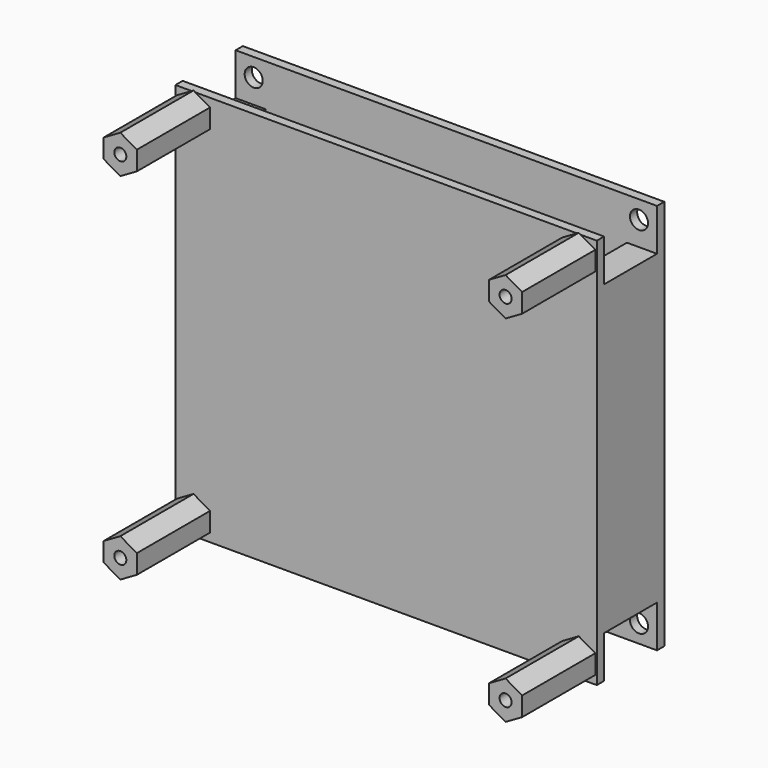
from build123d import *

# Parameters (mm, degrees)
F0_W     = 70
F0_H     = 65
F1_DEPTH = 1.5
F2_W     = 5
F2_H     = 51
F3_DEPTH = 11
F4_W     = 70
F4_H     = 65
F5_DEPTH = 1.5
F6_R     = 1.5
F7_DEPTH = 25
F8_R     = 1
F9_DEPTH = 15.2


with BuildPart() as f1:
    # F0 (on Front) → F1 (new body)
    with BuildSketch(Plane.XZ):
        with Locations((35, 32.5)):
            Rectangle(F0_W, F0_H)
    extrude(amount=-F1_DEPTH)

    # F2 (on face) → F3 (join)
    with BuildSketch(Plane(origin=(0, 1.5, 0), x_dir=(-1, 0, 0), z_dir=(0, 1, 0))):
        with Locations((-67.5, 32.5)):
            Rectangle(F2_W, F2_H)
        with Locations((-2.5, 32.5)):
            Rectangle(F2_W, F2_H)
    extrude(amount=F3_DEPTH)

    # F4 (on face) → F5 (join)
    with BuildSketch(Plane(origin=(0, 12.5, 0), x_dir=(-1, 0, 0), z_dir=(0, 1, 0))):
        with Locations((-35, 32.5)):
            Rectangle(F4_W, F4_H)
    extrude(amount=F5_DEPTH)

    # F6 (on Front) → F7 (cut)
    with BuildSketch(Plane.XZ):
        with Locations((3, 62)):
            Circle(F6_R)
        with Locations((67, 62)):
            Circle(F6_R)
        with Locations((3, 3)):
            Circle(F6_R)
        with Locations((67, 3)):
            Circle(F6_R)
    extrude(amount=-F7_DEPTH, mode=Mode.SUBTRACT)

    # F8 (on face) → F9 (join)
    with BuildSketch(Plane.XZ):
        Polygon((5.75, 60.412287), (5.75, 63.587713), (3, 65.175426), (0.25, 63.587713), (0.25, 60.412287), (3, 58.824574), align=None)
        with Locations((3, 62)):
            Circle(F8_R, mode=Mode.SUBTRACT)
        Polygon((5.75, 1.412287), (5.75, 4.587713), (3, 6.175426), (0.25, 4.587713), (0.25, 1.412287), (3, -0.175426), align=None)
        with Locations((3, 3)):
            Circle(F8_R, mode=Mode.SUBTRACT)
        Polygon((67, 58.824574), (69.75, 60.412287), (69.75, 63.587713), (67, 65.175426), (64.25, 63.587713), (64.25, 60.412287), align=None)
        with Locations((67, 62)):
            Circle(F8_R, mode=Mode.SUBTRACT)
        Polygon((67, -0.175426), (69.75, 1.412287), (69.75, 4.587713), (67, 6.175426), (64.25, 4.587713), (64.25, 1.412287), align=None)
        with Locations((67, 3)):
            Circle(F8_R, mode=Mode.SUBTRACT)
    extrude(amount=F9_DEPTH)


solid = f1.part
